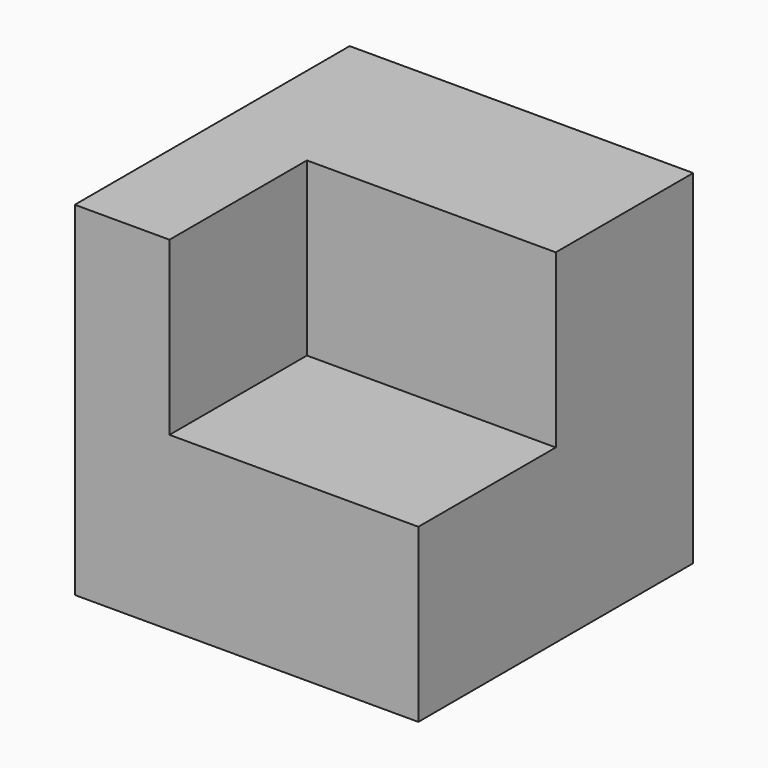
from build123d import *

# Parameters (mm, degrees)
F1_DEPTH = 50.8
F2_W     = 36.796042
F2_H     = 25.4
F3_DEPTH = 25.4


with BuildPart() as f1:
    # F0 (on Front) → F1 (new body)
    with BuildSketch(Plane.XZ):
        Polygon((-51.370482, -39.115857), (-0.570482, -39.115857), (-0.570482, -13.715857), (-37.366524, -13.715857), (-37.366524, 11.684143), (-51.370482, 11.684143), align=None)
    extrude(amount=F1_DEPTH)

    # F2 (on face) → F3 (join)
    with BuildSketch(Plane.XY.offset(-13.715857)):
        with Locations((-18.968503, -12.7)):
            Rectangle(F2_W, F2_H)
    extrude(amount=F3_DEPTH)


solid = f1.part
